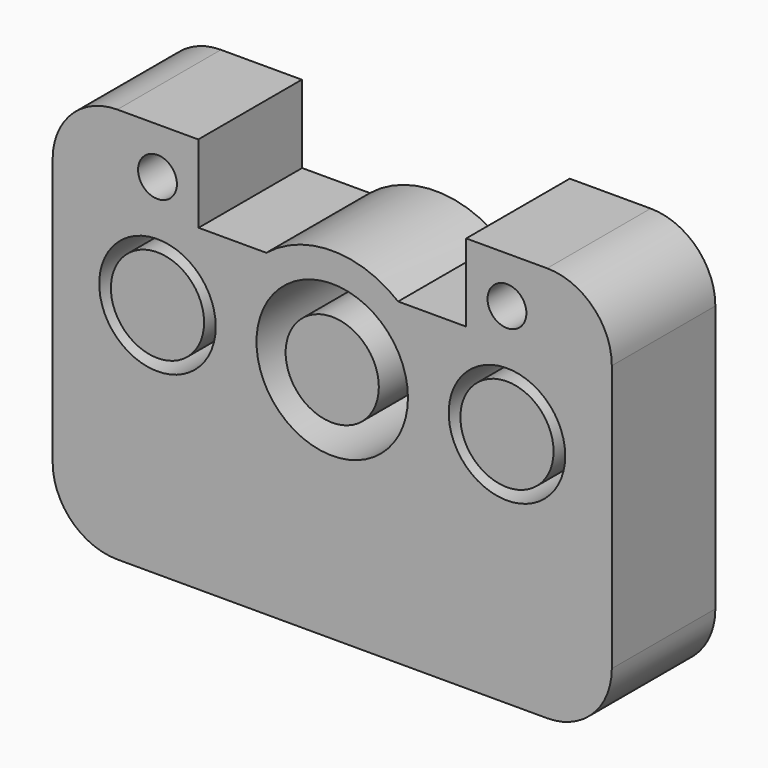
from build123d import *

# Parameters (mm, degrees)
F0_R     = 342.9
F0_R_2   = 114.3
F0_R_3   = 445.77
F1_DEPTH = 381
F0_R_4   = 274.32


with BuildPart() as f1:
    # F0 (on Front) → F1 (new body, symmetric)
    with BuildSketch(Plane.XZ):
        with BuildLine():
            Line((-1264.92, 0), (0, 0))
            Line((0, 0), (1264.92, 0))
            ThreePointArc((1264.92, 0), (1534.3276836321, 111.5923163679), (1645.92, 381))
            Line((1645.92, 381), (1645.92, 1950.72))
            ThreePointArc((1645.92, 1950.72), (1534.3276836321, 2220.1276836321), (1264.92, 2331.72))
            Line((1264.92, 2331.72), (788.67, 2331.72))
            Line((788.67, 2331.72), (788.67, 1874.52))
            Line((788.67, 1874.52), (387.9457039853, 1874.5210994023))
            ThreePointArc((387.9457039853, 1874.5210994023), (0.0016933665, 2011.6799999977), (-387.9430698478, 1874.5232280826))
            Line((-387.9430698478, 1874.5232280826), (-786.6820229085, 1874.5243220381))
            Line((-786.6820229085, 1874.5243220381), (-788.67, 2331.72))
            Line((-788.67, 2331.72), (-1264.92, 2331.72))
            ThreePointArc((-1264.92, 2331.72), (-1534.3276836321, 2220.1276836321), (-1645.92, 1950.72))
            Line((-1645.92, 1950.72), (-1645.92, 381))
            ThreePointArc((-1645.92, 381), (-1534.3276836321, 111.5923163679), (-1264.92, 0))
        make_face()
        with Locations((-1028.7, 1394.46)):
            Circle(F0_R, mode=Mode.SUBTRACT)
        with Locations((-1028.7, 2059.178)):
            Circle(F0_R_2, mode=Mode.SUBTRACT)
        with Locations((0, 1394.46)):
            Circle(F0_R_3, mode=Mode.SUBTRACT)
        with Locations((1028.7, 1394.46)):
            Circle(F0_R, mode=Mode.SUBTRACT)
        with Locations((1028.7, 2059.178)):
            Circle(F0_R_2, mode=Mode.SUBTRACT)
    extrude(amount=F1_DEPTH, both=True)


with BuildPart() as f1b:
    # F0 (on Front) → F1, piece 2 (new body, symmetric)
    with BuildSketch(Plane.XZ):
        with Locations((-1028.7, 1394.46)):
            Circle(F0_R_4)
    extrude(amount=F1_DEPTH, both=True)


with BuildPart() as f1c:
    # F0 (on Front) → F1, piece 3 (new body, symmetric)
    with BuildSketch(Plane.XZ):
        with Locations((0, 1394.46)):
            Circle(F0_R_4)
    extrude(amount=F1_DEPTH, both=True)


with BuildPart() as f1d:
    # F0 (on Front) → F1, piece 4 (new body, symmetric)
    with BuildSketch(Plane.XZ):
        with Locations((1028.7, 1394.46)):
            Circle(F0_R_4)
    extrude(amount=F1_DEPTH, both=True)


solid = Compound([f1.part, f1b.part, f1c.part, f1d.part])
